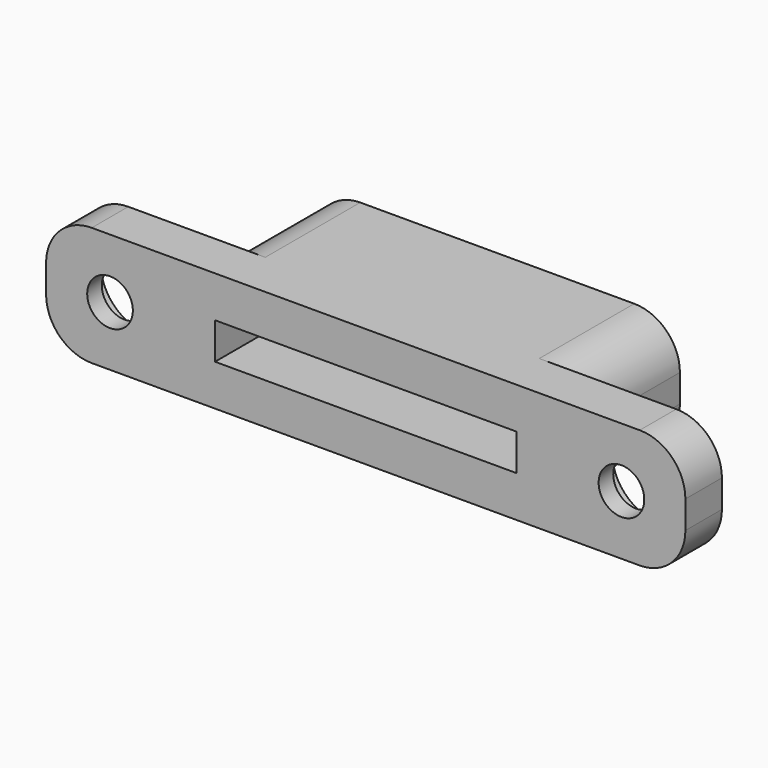
from build123d import *

# Parameters (mm, degrees)
F0_W     = 33
F0_H     = 13
F0_W_2   = 3.5
F0_H_2   = 5
F0_W_3   = 15
F1_DEPTH = 13.04
F2_W     = 33
F2_H     = 4
F3_DEPTH = 40.6
F4_R     = 2.5
F5_R     = 2.5
F6_DEPTH = 9.9
F4_R_2   = 5
F5_R_2   = 5
F7_DEPTH = 3
F8_R     = 5


with BuildPart() as f1:
    # F0 (on Top) → F1 (new body)
    with BuildSketch(Plane.XY):
        with Locations((0, 2.5)):
            Rectangle(F0_W, F0_H)
        with Locations((-18.25, 2.5)):
            Rectangle(F0_W_2, F0_H)
        Polygon((16.5, -4), (-16.5, -4), (-16.5, -9), (0, -9), (16.5, -9), align=None)
        with Locations((-18.25, -6.5)):
            Rectangle(F0_W_2, F0_H_2)
        with Locations((-27.5, -6.5)):
            Rectangle(F0_W_3, F0_H_2)
        with Locations((18.25, 2.5)):
            Rectangle(F0_W_2, F0_H)
        with Locations((18.25, -6.5)):
            Rectangle(F0_W_2, F0_H_2)
        with Locations((27.5, -6.5)):
            Rectangle(F0_W_3, F0_H_2)
    extrude(amount=F1_DEPTH)

    # F2 (on face) → F3 (cut)
    with BuildSketch(Plane(origin=(0, 9, 0), x_dir=(-1, 0, 0), z_dir=(0, 1, 0))):
        with Locations((0, 6.52)):
            Rectangle(F2_W, F2_H)
    extrude(amount=-F3_DEPTH, mode=Mode.SUBTRACT)

    # F4 (on face) + F5 (on face) → F6 (cut)
    with BuildSketch(Plane(origin=(0, -4, 0), x_dir=(-1, 0, 0), z_dir=(0, 1, 0))):
        with Locations((-28, 6.52)):
            Circle(F4_R)
    with BuildSketch(Plane(origin=(0, -4, 0), x_dir=(-1, 0, 0), z_dir=(0, 1, 0))):
        with Locations((28, 6.52)):
            Circle(F5_R)
    extrude(amount=-F6_DEPTH, mode=Mode.SUBTRACT)

    # F4 (on face) + F5 (on face) → F7 (cut)
    with BuildSketch(Plane(origin=(0, -4, 0), x_dir=(-1, 0, 0), z_dir=(0, 1, 0))):
        with Locations((-28, 6.52)):
            Circle(F4_R_2)
        with Locations((-28, 6.52)):
            Circle(F4_R, mode=Mode.SUBTRACT)
    with BuildSketch(Plane(origin=(0, -4, 0), x_dir=(-1, 0, 0), z_dir=(0, 1, 0))):
        with Locations((28, 6.52)):
            Circle(F5_R_2)
        with Locations((28, 6.52)):
            Circle(F5_R, mode=Mode.SUBTRACT)
    extrude(amount=-F7_DEPTH, mode=Mode.SUBTRACT)

    # F8
    f8_edges = [f1.edges().sort_by_distance(p)[0] for p in [
        (35, -6.5, 13.04),
        (35, -6.5, 0),
        (-35, -6.5, 13.04),
        (-35, -6.5, 0),
        (20, 2.5, 13.04),
        (-20, 2.5, 13.04),
        (-20, 2.5, 0),
        (20, 2.5, 0),
    ]]
    fillet(f8_edges, radius=F8_R)


solid = f1.part
